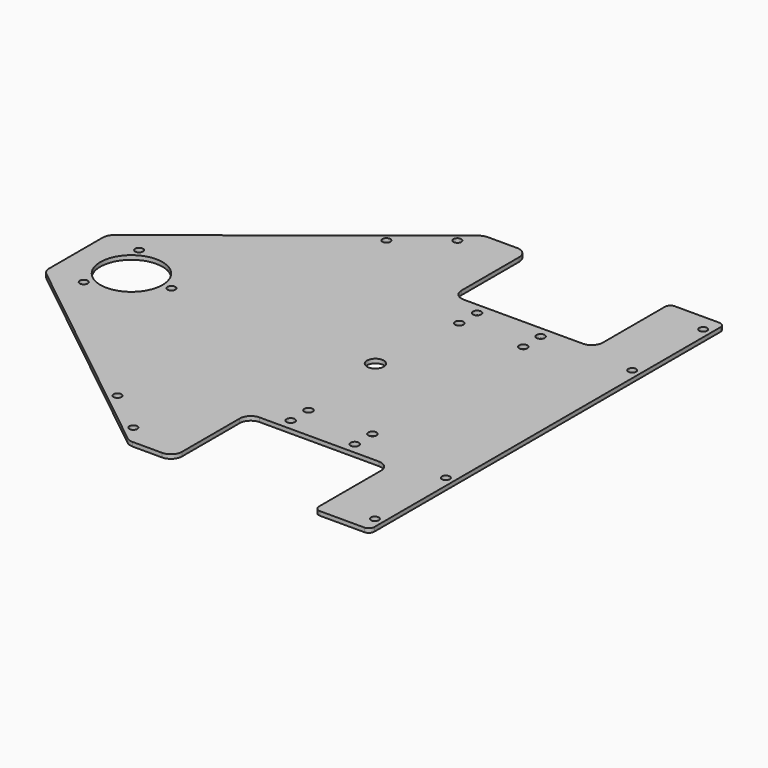
from build123d import *

# Parameters (mm, degrees)
SKETCH_R        = 2.3622
SKETCH_R_2      = 17.78
PAD_DEPTH       = 2.3622
FILLET_R        = 6.35
FILLET001_R     = 6.35
FILLET002_R     = 6.35
FILLET003_R     = 6.35
FILLET004_R     = 6.35
FILLET005_R     = 3.175
FILLET006_R     = 3.175
FILLET007_R     = 6.35
FILLET008_R     = 6.35
FILLET009_R     = 6.35
FILLET010_R     = 6.35
FILLET011_R     = 6.35
FILLET012_R     = 3.175
FILLET013_R     = 3.175
SKETCH001_R     = 4.79425
POCKET_DEPTH    = 2.3632
SKETCH002_R     = 2.2479
POCKET001_DEPTH = 2.3632
SKETCH003_R     = 2.2479
POCKET002_DEPTH = 4.99999


with BuildPart() as part:
    # Sketch (on DatumPlane) → Pad (new body)
    with BuildSketch(Plane.XY.offset(43.6758)):
        Polygon((40.4368, 73.025), (-40.4368, 73.025), (-40.4368, 127), (-65.8368, 127), (-197.6882, 22.225), (-197.6882, -22.225), (-65.8368, -127), (-40.4368, -127), (-40.4368, -73.025), (40.4368, -73.025), (40.4368, -127), (72.1868, -127), (72.1868, 127), (40.4368, 127), align=None)
        with Locations((-21.3868, 66.675)):
            Circle(SKETCH_R, mode=Mode.SUBTRACT)
        with Locations((-21.3868, 53.975)):
            Circle(SKETCH_R, mode=Mode.SUBTRACT)
        with Locations((-21.3868, -53.975)):
            Circle(SKETCH_R, mode=Mode.SUBTRACT)
        with Locations((-21.3868, -66.675)):
            Circle(SKETCH_R, mode=Mode.SUBTRACT)
        with Locations((15.0368, 66.675)):
            Circle(SKETCH_R, mode=Mode.SUBTRACT)
        with Locations((15.24, 53.975)):
            Circle(SKETCH_R, mode=Mode.SUBTRACT)
        with Locations((15.24, -53.975)):
            Circle(SKETCH_R, mode=Mode.SUBTRACT)
        with Locations((15.24, -66.675)):
            Circle(SKETCH_R, mode=Mode.SUBTRACT)
        with Locations((-165.9382, 0)):
            Circle(SKETCH_R_2, mode=Mode.SUBTRACT)
    extrude(amount=PAD_DEPTH)

    # Fillet
    fillet_edges = [part.edges().sort_by_distance(p)[0] for p in [
        (-197.6882, -22.225, 44.8569),
    ]]
    fillet(fillet_edges, radius=FILLET_R)

    # Fillet001
    fillet001_edges = [part.edges().sort_by_distance(p)[0] for p in [
        (-65.8368, -127, 44.8569),
    ]]
    fillet(fillet001_edges, radius=FILLET001_R)

    # Fillet002
    fillet002_edges = [part.edges().sort_by_distance(p)[0] for p in [
        (-40.4368, -127, 44.8569),
    ]]
    fillet(fillet002_edges, radius=FILLET002_R)

    # Fillet003
    fillet003_edges = [part.edges().sort_by_distance(p)[0] for p in [
        (-40.4368, -73.025, 44.8569),
    ]]
    fillet(fillet003_edges, radius=FILLET003_R)

    # Fillet004
    fillet004_edges = [part.edges().sort_by_distance(p)[0] for p in [
        (40.4368, -73.025, 44.8569),
    ]]
    fillet(fillet004_edges, radius=FILLET004_R)

    # Fillet005
    fillet005_edges = [part.edges().sort_by_distance(p)[0] for p in [
        (40.4368, -127, 44.8569),
    ]]
    fillet(fillet005_edges, radius=FILLET005_R)

    # Fillet006
    fillet006_edges = [part.edges().sort_by_distance(p)[0] for p in [
        (72.1868, -127, 44.8569),
    ]]
    fillet(fillet006_edges, radius=FILLET006_R)

    # Fillet007
    fillet007_edges = [part.edges().sort_by_distance(p)[0] for p in [
        (-197.6882, 22.225, 44.8569),
    ]]
    fillet(fillet007_edges, radius=FILLET007_R)

    # Fillet008
    fillet008_edges = [part.edges().sort_by_distance(p)[0] for p in [
        (-65.8368, 127, 44.8569),
    ]]
    fillet(fillet008_edges, radius=FILLET008_R)

    # Fillet009
    fillet009_edges = [part.edges().sort_by_distance(p)[0] for p in [
        (-40.4368, 127, 44.8569),
    ]]
    fillet(fillet009_edges, radius=FILLET009_R)

    # Fillet010
    fillet010_edges = [part.edges().sort_by_distance(p)[0] for p in [
        (40.4368, 73.025, 44.8569),
    ]]
    fillet(fillet010_edges, radius=FILLET010_R)

    # Fillet011
    fillet011_edges = [part.edges().sort_by_distance(p)[0] for p in [
        (-40.4368, 73.025, 44.8569),
    ]]
    fillet(fillet011_edges, radius=FILLET011_R)

    # Fillet012
    fillet012_edges = [part.edges().sort_by_distance(p)[0] for p in [
        (40.4368, 127, 44.8569),
    ]]
    fillet(fillet012_edges, radius=FILLET012_R)

    # Fillet013
    fillet013_edges = [part.edges().sort_by_distance(p)[0] for p in [
        (72.1868, 127, 44.8569),
    ]]
    fillet(fillet013_edges, radius=FILLET013_R)

    # Sketch001 (on Face39 of Fillet013) → Pocket (cut, through all)
    with BuildSketch(Plane.XY.offset(46.038)):
        with Locations((-26.2382, 0)):
            Circle(SKETCH001_R)
    extrude(amount=-POCKET_DEPTH, mode=Mode.SUBTRACT)

    # Sketch002 (on Face44 of Pocket) → Pocket001 (cut, through all)
    with BuildSketch(Plane.XY.offset(46.038)):
        with Locations((-96.923253, -96.214243)):
            Circle(SKETCH002_R)
        with Locations((-72.065864, -115.967033)):
            Circle(SKETCH002_R)
        with Locations((-72.065864, 115.967033)):
            Circle(SKETCH002_R)
        with Locations((-96.923253, 96.214243)):
            Circle(SKETCH002_R)
    extrude(amount=-POCKET001_DEPTH, mode=Mode.SUBTRACT)

    # Sketch003 (on Face48 of Pocket001) → Pocket002 (cut)
    with BuildSketch(Plane.XY.offset(46.038)):
        with Locations((67.4243, -117.475)):
            Circle(SKETCH003_R)
        with Locations((67.4243, -66.675)):
            Circle(SKETCH003_R)
        with Locations((67.4243, 117.475)):
            Circle(SKETCH003_R)
        with Locations((67.4243, 66.675)):
            Circle(SKETCH003_R)
        with Locations((-177.3809, 19.819338)):
            Circle(SKETCH003_R)
        with Locations((-177.3809, -19.819338)):
            Circle(SKETCH003_R)
        with Locations((-143.0528, 0)):
            Circle(SKETCH003_R)
    extrude(amount=-POCKET002_DEPTH, mode=Mode.SUBTRACT)


solid = part.part
